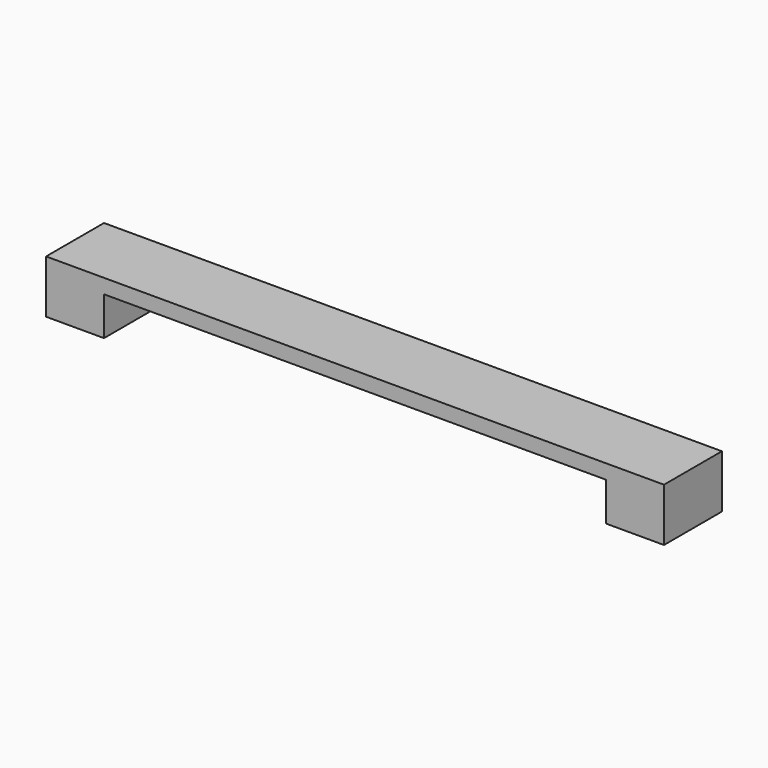
from build123d import *

# Parameters (mm, degrees)
BOX501_W     = 128
BOX501_H     = 15
BOX501_DEPTH = 3
BOX502_W     = 12
BOX502_H     = 15
BOX502_DEPTH = 11
BOX503_W     = 12
BOX503_H     = 15
BOX503_DEPTH = 11


with BuildPart() as box501:
    # Box501 → Box501 (new body)
    with BuildSketch(Plane(origin=(-98, -27, 48), x_dir=(1, 0, 0), z_dir=(0, 0, 1))):
        with Locations((64, 7.5)):
            Rectangle(BOX501_W, BOX501_H)
    extrude(amount=BOX501_DEPTH)


with BuildPart() as box502:
    # Box502 → Box502 (new body)
    with BuildSketch(Plane(origin=(-98, -27, 40), x_dir=(1, 0, 0), z_dir=(0, 0, 1))):
        with Locations((6, 7.5)):
            Rectangle(BOX502_W, BOX502_H)
    extrude(amount=BOX502_DEPTH)


with BuildPart() as fusion392:
    # Box503 → Box503 (new body)
    with BuildSketch(Plane(origin=(18, -27, 40), x_dir=(1, 0, 0), z_dir=(0, 0, 1))):
        with Locations((6, 7.5)):
            Rectangle(BOX503_W, BOX503_H)
    extrude(amount=BOX503_DEPTH)

    # Fusion392: union Box501, Box502
    add(box501.part)
    add(box502.part)


with BuildPart() as fusion392_1:
    # Fusion392 placement: moved
    add(fusion392.part.moved(Location((0, 26, 0))))


solid = fusion392_1.part
